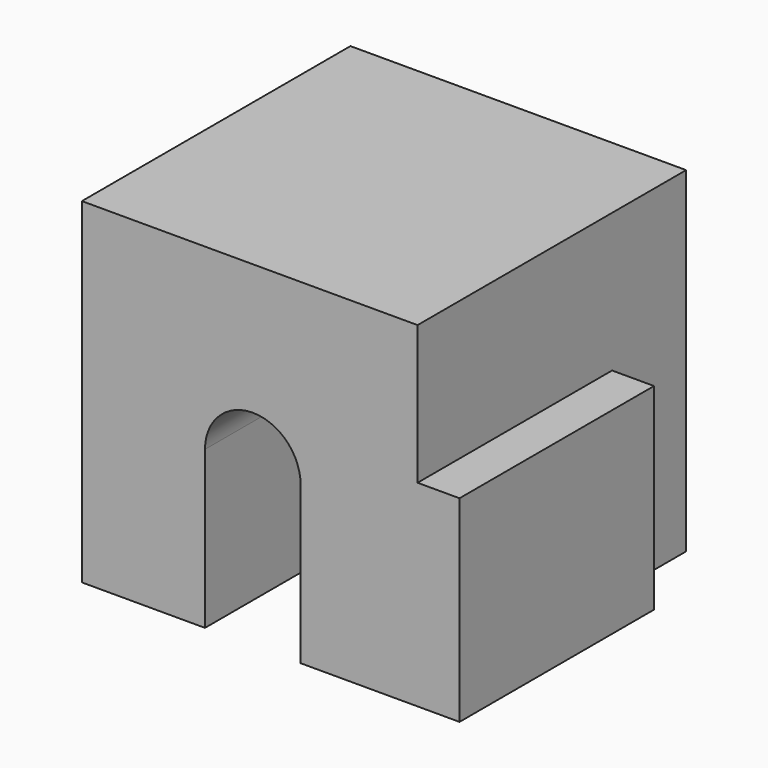
from build123d import *

# Parameters (mm, degrees)
F0_W     = 200
F0_H     = 200
F1_DEPTH = 200
F3_DEPTH = 200
F4_W     = 144.8461644351
F4_H     = 117.3098683357
F5_DEPTH = 25


with BuildPart() as f1:
    # F0 (on Front) → F1 (new body)
    with BuildSketch(Plane.XZ):
        with Locations((56.2296494842, 100)):
            Rectangle(F0_W, F0_H)
    extrude(amount=F1_DEPTH)

    # F2 (on face) → F3 (cut, through all)
    with BuildSketch(Plane.XZ.offset(200)):
        with BuildLine():
            Line((29.5775197446, 93.6536714435), (29.5775197446, 0))
            Line((29.5775197446, 0), (86.5442305803, 0))
            Line((86.5442305803, 0), (86.5442305803, 93.6536714435))
            ThreePointArc((86.5442305803, 93.6536714435), (58.0608751625, 122.1370268613), (29.5775197446, 93.6536714435))
        make_face()
    extrude(amount=-F3_DEPTH, mode=Mode.SUBTRACT)

    # F4 (on face) → F5 (join)
    with BuildSketch(Plane.YZ.offset(156.2296494842)):
        with Locations((-127.5769177824, 58.6549341679)):
            Rectangle(F4_W, F4_H)
    extrude(amount=F5_DEPTH)


solid = f1.part
